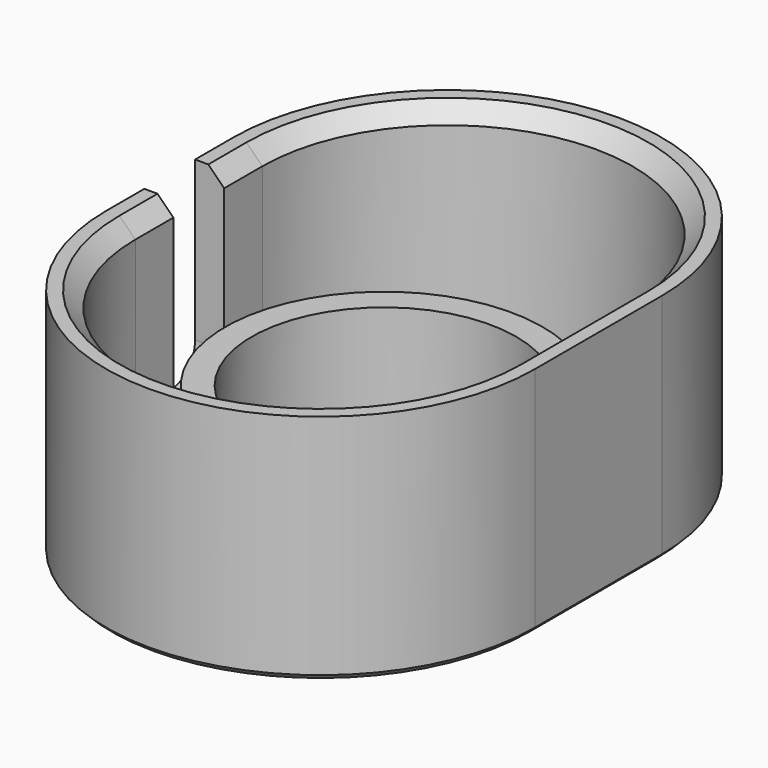
from build123d import *

# Parameters (mm, degrees)
PAD_DEPTH       = 20
PAD_DEPTH_BACK  = 2
POCKET_DEPTH    = 20.001
POCKET001_START = 2
SKETCH002_W     = 50
SKETCH002_H     = 6
POCKET001_DEPTH = 28
SKETCH003_R     = 14.5
POCKET002_DEPTH = 2.001
CHAMFER_SIZE    = 1.5
CHAMFER001_SIZE = 0.5
FILLET_R        = 2.99
SKETCH004_R     = 15
SKETCH004_R_2   = 12.5
PAD001_DEPTH    = 9


with BuildPart() as obj1:
    # Sketch → Pad (new body, two sides)
    with BuildSketch(Plane.XY) as pad_sk:
        with BuildLine():
            ThreePointArc((20.25, 7.5), (0, 27.75), (-20.25, 7.5))
            Line((-20.25, 7.5), (-20.25, -7.5))
            ThreePointArc((-20.25, -7.5), (0, -27.75), (20.25, -7.5))
            Line((20.25, 7.5), (20.25, -7.5))
        make_face()
    extrude(amount=PAD_DEPTH)
    extrude(pad_sk.sketch, amount=-PAD_DEPTH_BACK)

    # Sketch001 → Pocket (cut, through all)
    with BuildSketch(Plane.XY):
        with BuildLine():
            ThreePointArc((17.5, 7.5), (0, 25), (-17.5, 7.5))
            Line((-17.5, 7.5), (-17.5, -7.5))
            ThreePointArc((-17.5, -7.5), (0, -25), (17.5, -7.5))
            Line((17.5, 7.5), (17.5, -7.5))
        make_face()
    extrude(amount=POCKET_DEPTH, mode=Mode.SUBTRACT)

    # Sketch002 → Pocket001 (cut)
    with BuildSketch(Plane.XY.offset(POCKET001_START)):
        with Locations((-25, 0)):
            Rectangle(SKETCH002_W, SKETCH002_H)
    extrude(amount=POCKET001_DEPTH, mode=Mode.SUBTRACT)

    # Sketch003 → Pocket002 (cut, through all)
    with BuildSketch(Plane.XY):
        with Locations((0, -7.5)):
            Circle(SKETCH003_R)
    extrude(amount=-POCKET002_DEPTH, mode=Mode.SUBTRACT)

    # Chamfer
    chamfer_edges = [obj1.edges().sort_by_distance(p)[0] for p in [
        (0, 25, 20),
    ]]
    chamfer(chamfer_edges, length=CHAMFER_SIZE)

    # Chamfer001
    chamfer001_edges = [obj1.edges().sort_by_distance(p)[0] for p in [
        (0, -27.75, -2),
    ]]
    chamfer(chamfer001_edges, length=CHAMFER001_SIZE)

    # Fillet
    fillet_edges = [obj1.edges().sort_by_distance(p)[0] for p in [
        (-18.875, -3, 2),
        (-18.875, 3, 2),
    ]]
    fillet(fillet_edges, radius=FILLET_R)


with BuildPart() as bodyring:
    # Sketch004 → Pad001 (new body)
    with BuildSketch(Plane.XY):
        Circle(SKETCH004_R)
        Circle(SKETCH004_R_2, mode=Mode.SUBTRACT)
    extrude(amount=PAD001_DEPTH)


solid = Compound([obj1.part, bodyring.part])
